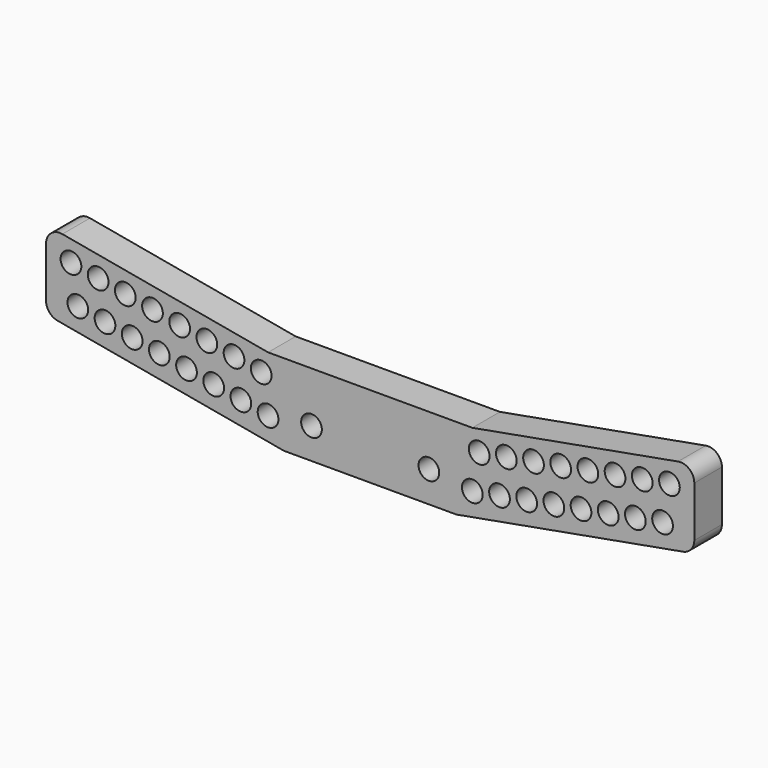
from build123d import *

# Parameters (mm, degrees)
F0_R     = 1.5
F1_DEPTH = 5


with BuildPart() as f1:
    # F0 (on Front) → F1 (new body)
    with BuildSketch(Plane.XZ):
        with BuildLine():
            Line((-46.940999, 15.228949), (-46.940999, 7.901035))
            ThreePointArc((-46.940999, 7.901035), (-46.475933, 6.618858), (-45.297021, 5.932978))
            Line((-45.297021, 5.932978), (-12.5, 0))
            Line((-12.5, 0), (0, 0))
            Line((0, 0), (0, 11.807526))
            Line((0, 11.807526), (-14.79237, 11.807526))
            Line((-14.79237, 11.807526), (-44.584978, 17.197006))
            ThreePointArc((-44.584978, 17.197006), (-46.223177, 16.763883), (-46.940999, 15.228949))
        make_face()
        with Locations((-14.79237, 3.74056)):
            Circle(F0_R, mode=Mode.SUBTRACT)
        with Locations((-26.600712, 5.876688)):
            Circle(F0_R, mode=Mode.SUBTRACT)
        with Locations((-38.409055, 8.012816)):
            Circle(F0_R, mode=Mode.SUBTRACT)
        with Locations((-30.536827, 6.588731)):
            Circle(F0_R, mode=Mode.SUBTRACT)
        with Locations((-34.472941, 7.300773)):
            Circle(F0_R, mode=Mode.SUBTRACT)
        with Locations((-18.728484, 4.452603)):
            Circle(F0_R, mode=Mode.SUBTRACT)
        with Locations((-22.664598, 5.164645)):
            Circle(F0_R, mode=Mode.SUBTRACT)
        with Locations((-8.5, 4.5)):
            Circle(F0_R, mode=Mode.SUBTRACT)
        with Locations((-42.345169, 8.724859)):
            Circle(F0_R, mode=Mode.SUBTRACT)
        with Locations((-23.656564, 10.394651)):
            Circle(F0_R, mode=Mode.SUBTRACT)
        with Locations((-35.464907, 12.530779)):
            Circle(F0_R, mode=Mode.SUBTRACT)
        with Locations((-31.528792, 11.818737)):
            Circle(F0_R, mode=Mode.SUBTRACT)
        with Locations((-27.592678, 11.106694)):
            Circle(F0_R, mode=Mode.SUBTRACT)
        with Locations((-19.72045, 9.682608)):
            Circle(F0_R, mode=Mode.SUBTRACT)
        with Locations((-15.784336, 8.970566)):
            Circle(F0_R, mode=Mode.SUBTRACT)
        with Locations((-43.337135, 13.954865)):
            Circle(F0_R, mode=Mode.SUBTRACT)
        with Locations((-39.401021, 13.242822)):
            Circle(F0_R, mode=Mode.SUBTRACT)
        with BuildLine():
            Line((0, 11.807526), (0, 0))
            Line((0, 0), (12.5, 0))
            Line((12.5, 0), (45.297021, 5.932978))
            ThreePointArc((45.297021, 5.932978), (46.475933, 6.618858), (46.940999, 7.901035))
            Line((46.940999, 7.901035), (46.940999, 15.228949))
            ThreePointArc((46.940999, 15.228949), (46.223177, 16.763883), (44.584978, 17.197006))
            Line((44.584978, 17.197006), (14.79237, 11.807526))
            Line((14.79237, 11.807526), (0, 11.807526))
        make_face()
        with Locations((14.79237, 3.74056)):
            Circle(F0_R, mode=Mode.SUBTRACT)
        with Locations((8.5, 4.5)):
            Circle(F0_R, mode=Mode.SUBTRACT)
        with Locations((18.728484, 4.452603)):
            Circle(F0_R, mode=Mode.SUBTRACT)
        with Locations((22.664598, 5.164645)):
            Circle(F0_R, mode=Mode.SUBTRACT)
        with Locations((26.600712, 5.876688)):
            Circle(F0_R, mode=Mode.SUBTRACT)
        with Locations((30.536827, 6.588731)):
            Circle(F0_R, mode=Mode.SUBTRACT)
        with Locations((34.472941, 7.300773)):
            Circle(F0_R, mode=Mode.SUBTRACT)
        with Locations((38.409055, 8.012816)):
            Circle(F0_R, mode=Mode.SUBTRACT)
        with Locations((15.784336, 8.970566)):
            Circle(F0_R, mode=Mode.SUBTRACT)
        with Locations((19.72045, 9.682608)):
            Circle(F0_R, mode=Mode.SUBTRACT)
        with Locations((23.656564, 10.394651)):
            Circle(F0_R, mode=Mode.SUBTRACT)
        with Locations((42.345169, 8.724859)):
            Circle(F0_R, mode=Mode.SUBTRACT)
        with Locations((27.592678, 11.106694)):
            Circle(F0_R, mode=Mode.SUBTRACT)
        with Locations((31.528792, 11.818737)):
            Circle(F0_R, mode=Mode.SUBTRACT)
        with Locations((35.464907, 12.530779)):
            Circle(F0_R, mode=Mode.SUBTRACT)
        with Locations((39.401021, 13.242822)):
            Circle(F0_R, mode=Mode.SUBTRACT)
        with Locations((43.337135, 13.954865)):
            Circle(F0_R, mode=Mode.SUBTRACT)
    extrude(amount=-F1_DEPTH)


solid = f1.part
